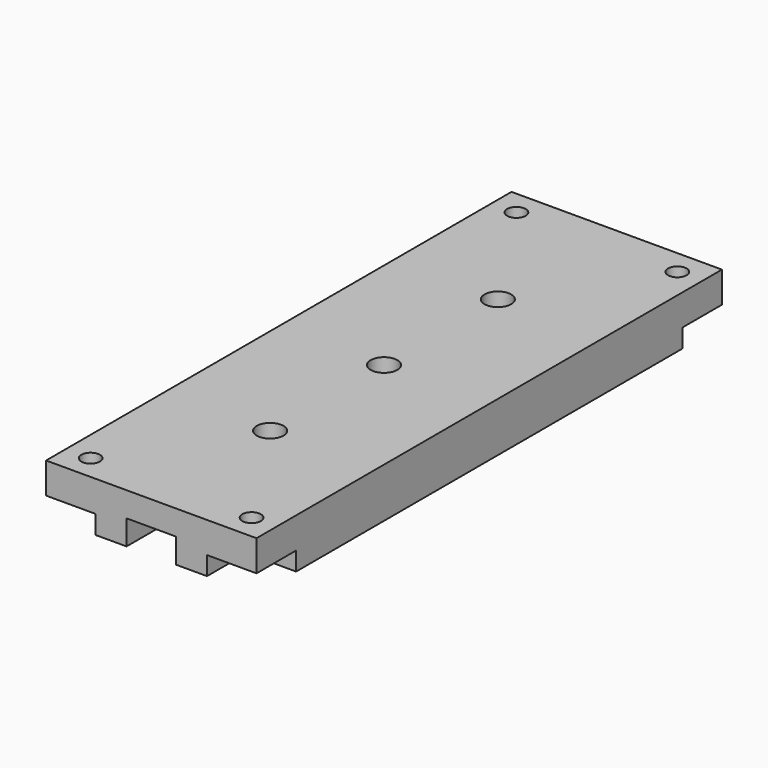
from build123d import *

# Parameters (mm, degrees)
F0_W          = 34
F0_H          = 94
F0_R          = 1.5
F0_R_2        = 2.15
F1_DEPTH      = 8
F2_W          = 8
F2_H          = 8
F3_DEPTH      = 3
F4_W          = 8
F4_H          = 5.470946
F5_DEPTH      = 100
F5_DEPTH_BACK = 28


with BuildPart() as f1:
    # F0 (on Top) → F1 (new body)
    with BuildSketch(Plane.XY):
        Rectangle(F0_W, F0_H)
        with Locations((-13, -43)):
            Circle(F0_R, mode=Mode.SUBTRACT)
        with Locations((13, -43)):
            Circle(F0_R, mode=Mode.SUBTRACT)
        with Locations((0, -23)):
            Circle(F0_R_2, mode=Mode.SUBTRACT)
        with Locations((-13, 43)):
            Circle(F0_R, mode=Mode.SUBTRACT)
        Circle(F0_R_2, mode=Mode.SUBTRACT)
        with Locations((0, 23)):
            Circle(F0_R_2, mode=Mode.SUBTRACT)
        with Locations((13, 43)):
            Circle(F0_R, mode=Mode.SUBTRACT)
    extrude(amount=F1_DEPTH)

    # F2 (on Top) → F3 (cut)
    with BuildSketch(Plane.XY):
        with Locations((-13, 43)):
            Rectangle(F2_W, F2_H)
        with Locations((13, 43)):
            Rectangle(F2_W, F2_H)
        with Locations((-13, -43)):
            Rectangle(F2_W, F2_H)
        with Locations((13, -43)):
            Rectangle(F2_W, F2_H)
    extrude(amount=F3_DEPTH, mode=Mode.SUBTRACT)

    # F4 (on Front) → F5 (cut, two sides)
    with BuildSketch(Plane.XZ) as f5_sk:
        with Locations((0, 1.264527)):
            Rectangle(F4_W, F4_H)
    extrude(amount=F5_DEPTH, mode=Mode.SUBTRACT)
    extrude(f5_sk.sketch, amount=-F5_DEPTH_BACK, mode=Mode.SUBTRACT)


solid = f1.part
